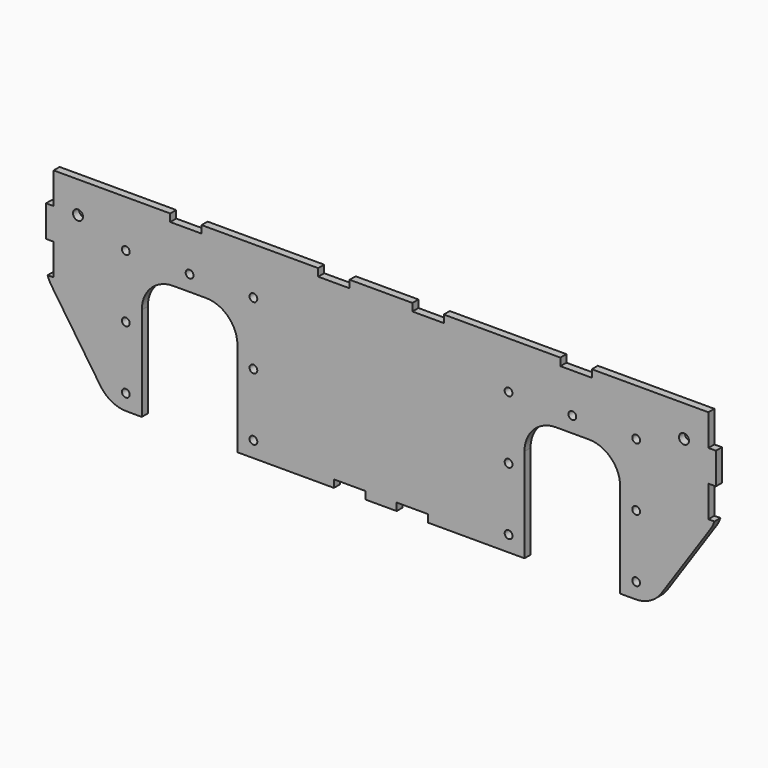
from build123d import *

# Parameters (mm, degrees)
F1_DEPTH = 6
F2_W     = 6
F2_H     = 25
F2_W_2   = 25
F2_H_2   = 6
F3_DEPTH = 25
F5_D     = 6.2
F6_D     = 8


with BuildPart() as f1:
    # F0 (on Front) → F1 (new body)
    with BuildSketch(Plane.XZ):
        with BuildLine():
            Line((224.8010802506, 50.9528913677), (-308.5989197494, 50.9528913677))
            Line((-308.5989197494, 50.9528913677), (-308.5989197494, -16.3773312117))
            ThreePointArc((-308.5989197494, -16.3773312117), (-307.4994411864, -23.709798398), (-304.2977137462, -30.3973143456))
            Line((-304.2977137462, -30.3973143456), (-265.2360511733, -88.0670917662))
            ThreePointArc((-265.2360511733, -88.0670917662), (-256.2526406882, -96.1321666846), (-244.5372571765, -99.0471086323))
            Line((-244.5372571765, -99.0471086323), (-232.3989197494, -99.0471086323))
            Line((-232.3989197494, -99.0471086323), (-232.3989197494, -24.0471086323))
            ThreePointArc((-232.3989197494, -24.0471086323), (-225.076589279, -6.3694391026), (-207.3989197494, 0.9528913677))
            Line((-207.3989197494, 0.9528913677), (-181.1989197494, 0.9528913677))
            ThreePointArc((-181.1989197494, 0.9528913677), (-163.5212502197, -6.3694391026), (-156.1989197494, -24.0471086323))
            Line((-156.1989197494, -24.0471086323), (-156.1989197494, -99.0471086323))
            Line((-156.1989197494, -99.0471086323), (72.4010802506, -99.0471086323))
            Line((72.4010802506, -99.0471086323), (72.4010802506, -24.0471086323))
            ThreePointArc((72.4010802506, -24.0471086323), (79.723410721, -6.3694391026), (97.4010802506, 0.9528913677))
            Line((97.4010802506, 0.9528913677), (123.6010802506, 0.9528913677))
            ThreePointArc((123.6010802506, 0.9528913677), (141.2787497803, -6.3694391026), (148.6010802506, -24.0471086323))
            Line((148.6010802506, -24.0471086323), (148.6010802506, -99.0471086323))
            Line((148.6010802506, -99.0471086323), (160.7394176777, -99.0471086323))
            ThreePointArc((160.7394176777, -99.0471086323), (172.4548011894, -96.1321666846), (181.4382116746, -88.0670917662))
            Line((181.4382116746, -88.0670917662), (220.4998742475, -30.3973143456))
            ThreePointArc((220.4998742475, -30.3973143456), (223.7016016877, -23.709798398), (224.8010802506, -16.3773312117))
            Line((224.8010802506, -16.3773312117), (224.8010802506, 50.9528913677))
        make_face()
    extrude(amount=F1_DEPTH)

    # F2 (on face) → F3 (cut)
    with BuildSketch(Plane.XZ.offset(6)):
        with Locations((-305.5989197494, 38.4528913677)):
            Rectangle(F2_W, F2_H)
        with Locations((-305.5989197494, -11.5471086323)):
            Rectangle(F2_W, F2_H)
        with Locations((221.8010802506, 38.4528913677)):
            Rectangle(F2_W, F2_H)
        with Locations((221.8010802506, -11.5471086323)):
            Rectangle(F2_W, F2_H)
        with Locations((-66.8989197494, -96.0471086323)):
            Rectangle(F2_W_2, F2_H_2)
        with Locations((-16.8989197494, -96.0471086323)):
            Rectangle(F2_W_2, F2_H_2)
        with Locations((-79.3989197494, 47.9528913677)):
            Rectangle(F2_W_2, F2_H_2)
        with Locations((-4.3989197494, 47.9528913677)):
            Rectangle(F2_W_2, F2_H_2)
        with Locations((-197.2489197494, 47.9528913677)):
            Rectangle(F2_W_2, F2_H_2)
        with Locations((113.4510802506, 47.9528913677)):
            Rectangle(F2_W_2, F2_H_2)
    extrude(amount=-F3_DEPTH, mode=Mode.SUBTRACT)

    # F5 (through all)
    with Locations(Plane.XZ.offset(6)):
        with Locations((-245.0989197494, -86.5471086323), (-245.0989197494, -36.5471086323), (-245.0989197494, 13.4528913677), (-194.2989197494, 13.4528913677), (-143.4989197494, 13.4528913677), (-143.4989197494, -36.5471086323), (-143.4989197494, -86.5471086323), (59.7010802506, -86.5471086323), (59.7010802506, -36.5471086323), (59.7010802506, 13.4528913677), (110.5010802506, 13.4528913677), (161.3010802506, 13.4528913677), (161.3010802506, -36.5471086323), (161.3010802506, -86.5471086323)):
            Hole(F5_D / 2)

    # F6 (through all)
    with Locations(Plane.XZ.offset(6)):
        with Locations((-283.1989197494, 25.9528913677), (199.4010802506, 25.9528913677)):
            Hole(F6_D / 2)


solid = f1.part
